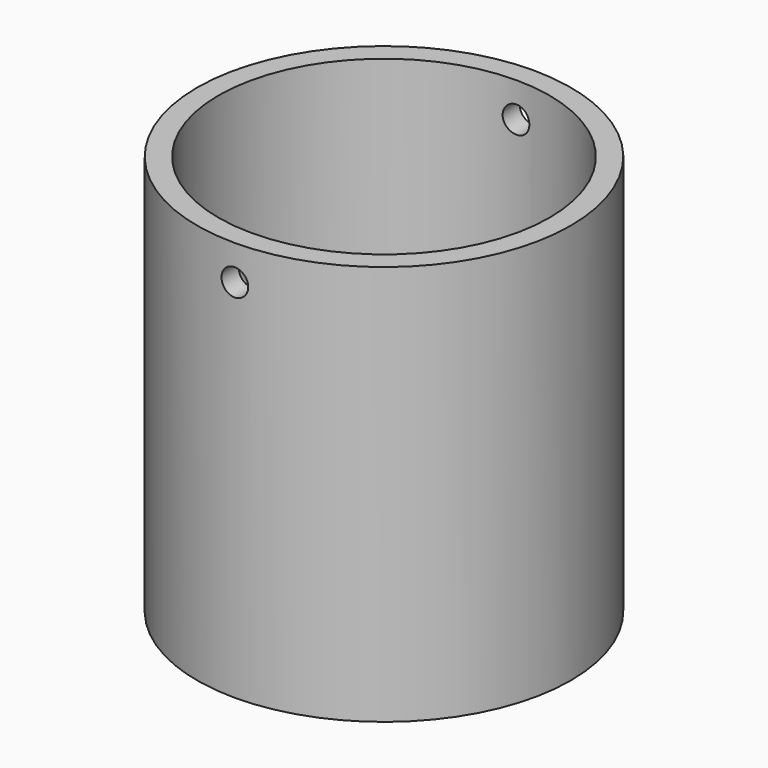
from build123d import *

# Parameters (mm, degrees)
F0_R          = 44.45
F1_DEPTH      = 95.25
F2_T          = -5.08
F3_R          = 3.175
F4_DEPTH      = 44.451
F4_DEPTH_BACK = 44.451


with BuildPart() as f1:
    # F0 (on Top) → F1 (new body)
    with BuildSketch(Plane.XY):
        Circle(F0_R)
    extrude(amount=F1_DEPTH)

    # F2
    f2_openings = [f1.faces().sort_by_distance(p)[0] for p in [
        (0, 0, 95.25),
    ]]
    offset(amount=F2_T, openings=f2_openings)

    # F3 (on Front) → F4 (cut, two sides)
    with BuildSketch(Plane.XZ) as f4_sk:
        with Locations((0, 86.995)):
            Circle(F3_R)
    extrude(amount=-F4_DEPTH, mode=Mode.SUBTRACT)
    extrude(f4_sk.sketch, amount=F4_DEPTH_BACK, mode=Mode.SUBTRACT)


solid = f1.part
